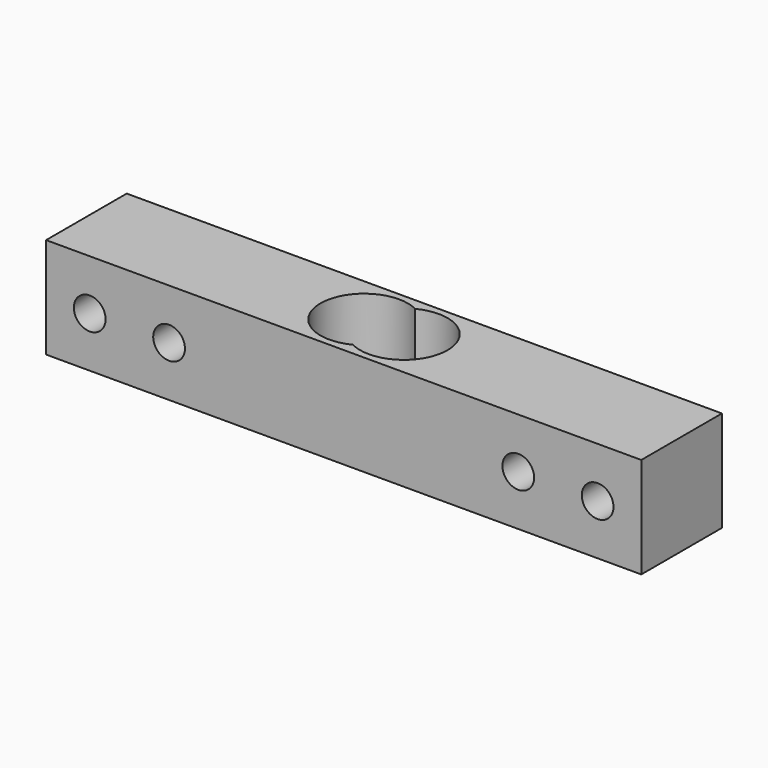
from build123d import *

# Parameters (mm, degrees)
SKETCH_W          = 75
SKETCH_H          = 12.7
PAD_DEPTH         = 12.7
SKETCH001_R       = 2
POCKET_DEPTH      = 6.351
POCKET_DEPTH_BACK = -6.351


with BuildPart() as part:
    # Sketch → Pad (new body)
    with BuildSketch(Plane.XY):
        Rectangle(SKETCH_W, SKETCH_H)
        with BuildLine():
            ThreePointArc((0, -4.898979), (8, 0), (0, 4.898979))
            ThreePointArc((0, 4.898979), (-8, 0), (0, -4.898979))
        make_face(mode=Mode.SUBTRACT)
    extrude(amount=PAD_DEPTH)

    # Sketch001 → Pocket (cut, two sides)
    with BuildSketch(Plane.XZ) as pocket_sk:
        with Locations((-32, 6.35)):
            Circle(SKETCH001_R)
        with Locations((-22, 6.35)):
            Circle(SKETCH001_R)
        with Locations((22, 6.35)):
            Circle(SKETCH001_R)
        with Locations((32, 6.35)):
            Circle(SKETCH001_R)
    extrude(amount=-POCKET_DEPTH, mode=Mode.SUBTRACT)
    extrude(pocket_sk.sketch, amount=-POCKET_DEPTH_BACK, mode=Mode.SUBTRACT)


solid = part.part
